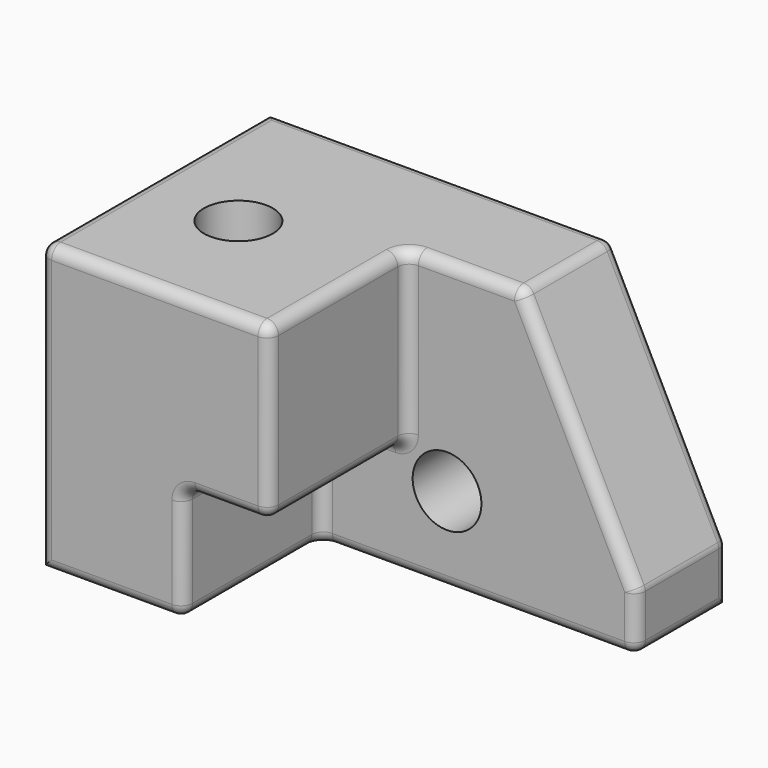
from build123d import *

# Parameters (mm, degrees)
F0_W     = 203.2
F0_H     = 127
F1_DEPTH = 127
F3_DEPTH = 76.2
F4_SIZE2 = 101.6
F4_SIZE  = 50.8
F5_R     = 5.08
F6_R     = 15.24
F7_DEPTH = 50.8
F8_R     = 15.24
F9_DEPTH = 127


with BuildPart() as f1:
    # F0 (on Front) → F1 (new body)
    with BuildSketch(Plane.XZ):
        with Locations((1.4119390398, -12.2287340821)):
            Rectangle(F0_W, F0_H)
    extrude(amount=F1_DEPTH)

    # F2 (on face) → F3 (cut)
    with BuildSketch(Plane.XZ.offset(127)):
        Polygon((-36.6880609602, -24.9287340821), (-36.6880609602, -75.7287340821), (103.0119390398, -75.7287340821), (103.0119390398, 51.2712659179), (1.4119390398, 51.2712659179), (1.4119390398, -24.9287340821), align=None)
    extrude(amount=-F3_DEPTH, mode=Mode.SUBTRACT)

    # F4
    f4_edges = [f1.edges().sort_by_distance(p)[0] for p in [
        (103.011939, -25.4, 51.271266),
    ]]
    f4_side = f1.faces().sort_by_distance((-20.35949, -52.614286, 51.271266))[0]
    chamfer(f4_edges, length=F4_SIZE, length2=F4_SIZE2, reference=f4_side)

    # F5
    f5_edges = [f1.edges().sort_by_distance(p)[0] for p in [
        (-49.388061, -127, 51.271266),
        (-100.188061, -63.5, 51.271266),
        (1.411939, -88.9, 51.271266),
        (26.811939, -50.8, 51.271266),
        (52.211939, -25.4, 51.271266),
        (-23.988061, 0, 51.271266),
        (77.611939, -50.8, 0.471266),
        (77.611939, 0, 0.471266),
        (103.011939, -25.4, -50.328734),
        (103.011939, 0, -63.028734),
        (103.011939, -25.4, -75.728734),
        (103.011939, -50.8, -63.028734),
        (33.161939, -50.8, -75.728734),
        (1.411939, -50.8, 13.171266),
        (1.411939, -88.9, -24.928734),
        (-36.688061, -50.8, -50.328734),
        (-17.638061, -127, -24.928734),
        (-36.688061, -127, -50.328734),
        (-68.438061, -127, -75.728734),
        (-36.688061, -88.9, -75.728734),
        (-17.638061, -50.8, -24.928734),
        (-36.688061, -88.9, -24.928734),
        (-100.188061, -127, -12.228734),
        (1.411939, -127, 13.171266),
    ]]
    fillet(f5_edges, radius=F5_R)

    # F6 (on face) → F7 (cut, through all)
    with BuildSketch(Plane.XZ.offset(50.8)):
        with Locations((19.1919390398, -37.6287340821)):
            Circle(F6_R)
    extrude(amount=-F7_DEPTH, mode=Mode.SUBTRACT)

    # F8 (on face) → F9 (cut, through all)
    with BuildSketch(Plane.XY.offset(51.2712659179)):
        with Locations((-57.0080609602, -71.12)):
            Circle(F8_R)
    extrude(amount=-F9_DEPTH, mode=Mode.SUBTRACT)


solid = f1.part
